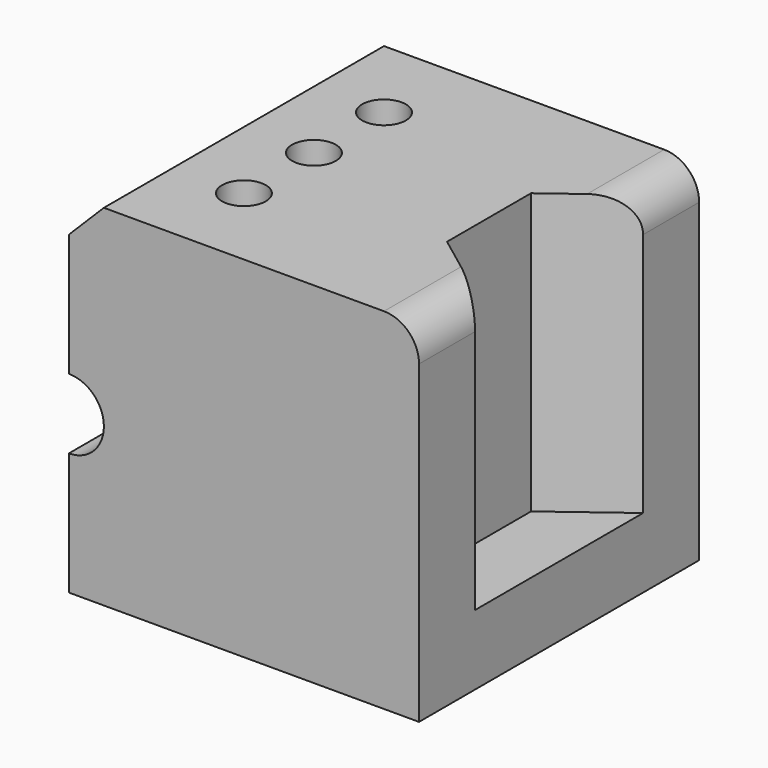
from build123d import *

# Parameters (mm, degrees)
F0_W     = 100
F0_H     = 100
F1_DEPTH = 100
F3_DEPTH = 100.001
F5_DEPTH = 80
F6_R     = 10
F7_R     = 6.25
F8_DEPTH = 100.001
F9_SIZE2 = 10
F9_SIZE  = 10


with BuildPart() as f1:
    # F0 (on Top) → F1 (new body)
    with BuildSketch(Plane.XY):
        with Locations((50, -50)):
            Rectangle(F0_W, F0_H)
    extrude(amount=F1_DEPTH)

    # F2 (on face) → F3 (cut, through all)
    with BuildSketch(Plane.XZ.offset(100)):
        with BuildLine():
            ThreePointArc((0, 35), (7.071068, 37.928932), (10, 45))
            ThreePointArc((10, 45), (7.071068, 52.071068), (0, 55))
            Line((0, 55), (0, 35))
        make_face()
    extrude(amount=-F3_DEPTH, mode=Mode.SUBTRACT)

    # F4 (on face) → F5 (cut)
    with BuildSketch(Plane.XY.offset(100)):
        Polygon((100, -80), (100, -20), (80, -35), (80, -65), align=None)
    extrude(amount=-F5_DEPTH, mode=Mode.SUBTRACT)

    # F6
    f6_edges = [f1.edges().sort_by_distance(p)[0] for p in [
        (100, -10, 100),
        (100, -90, 100),
    ]]
    fillet(f6_edges, radius=F6_R)

    # F7 (on face) → F8 (cut, through all)
    with BuildSketch(Plane.XY.offset(100)):
        with Locations((30, -25)):
            Circle(F7_R)
        with Locations((30, -50)):
            Circle(F7_R)
        with Locations((30, -75)):
            Circle(F7_R)
    extrude(amount=-F8_DEPTH, mode=Mode.SUBTRACT)

    # F9
    f9_edges = [f1.edges().sort_by_distance(p)[0] for p in [
        (0, -50, 100),
    ]]
    chamfer(f9_edges, length=F9_SIZE, length2=F9_SIZE2)


solid = f1.part
